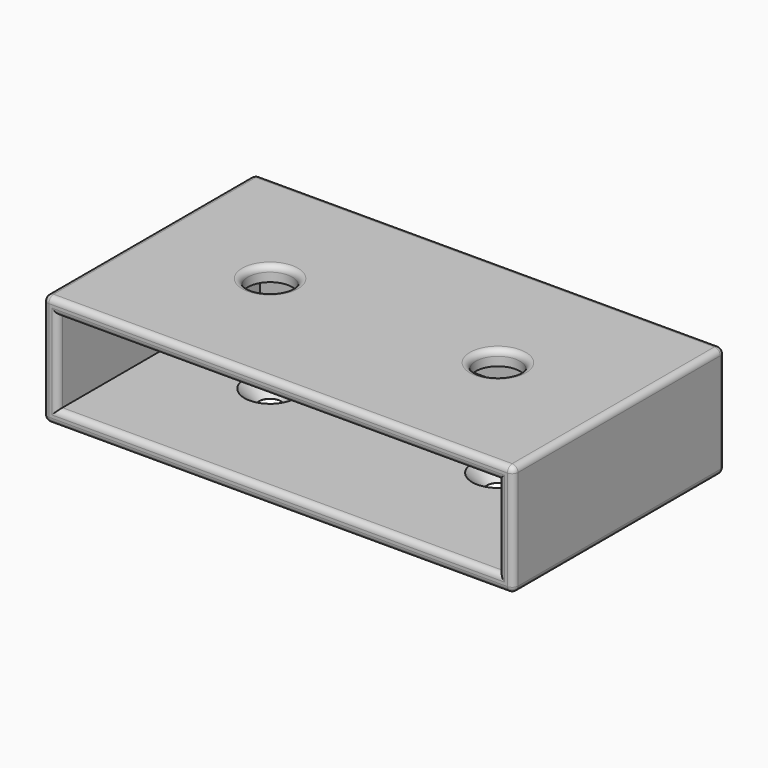
from build123d import *

# Parameters (mm, degrees)
SKETCH_W          = 80
SKETCH_H          = 19
PAD_DEPTH         = 45
SKETCH001_W       = 75
SKETCH001_H       = 14
POCKET_DEPTH      = 0.001
POCKET_DEPTH_BACK = 45.001
SKETCH002_R       = 3.75
POCKET001_DEPTH   = 3.5
SKETCH003_R       = 1.875
POCKET002_DEPTH   = 2.5
CHAMFER_SIZE      = 2.485
SKETCH004_W       = 80
SKETCH004_H       = 19
PAD001_DEPTH      = 2
FILLET_R          = 1


with BuildPart() as part:
    # Sketch → Pad (new body)
    with BuildSketch(Plane.XZ):
        Rectangle(SKETCH_W, SKETCH_H)
    extrude(amount=PAD_DEPTH)

    # Sketch001 → Pocket (cut, two sides)
    with BuildSketch(Plane.XZ) as pocket_sk:
        Rectangle(SKETCH001_W, SKETCH001_H)
    extrude(amount=-POCKET_DEPTH, mode=Mode.SUBTRACT)
    extrude(pocket_sk.sketch, amount=POCKET_DEPTH_BACK, mode=Mode.SUBTRACT)

    # Sketch002 (on DatumPlane) → Pocket001 (cut)
    with BuildSketch(Plane(origin=(0, 0, 9.5), x_dir=(-1, 0, 0), z_dir=(0, 0, 1))):
        with Locations((-19.375, 22.5)):
            Circle(SKETCH002_R)
        with Locations((19.375, 22.5)):
            Circle(SKETCH002_R)
    extrude(amount=-POCKET001_DEPTH, mode=Mode.SUBTRACT)

    # Sketch003 (on DatumPlane) → Pocket002 (cut)
    with BuildSketch(Plane(origin=(0, 0, -7), x_dir=(-1, 0, 0), z_dir=(0, 0, 1))):
        with Locations((-19.375, 22.5)):
            Circle(SKETCH003_R)
        with Locations((19.375, 22.5)):
            Circle(SKETCH003_R)
    extrude(amount=-POCKET002_DEPTH, mode=Mode.SUBTRACT)

    # Chamfer
    chamfer_edges = [part.edges().sort_by_distance(p)[0] for p in [
        (-17.5, -22.5, -7),
        (21.25, -22.5, -7),
    ]]
    chamfer(chamfer_edges, length=CHAMFER_SIZE)

    # Sketch004 → Pad001 (join)
    with BuildSketch(Plane.XZ):
        Rectangle(SKETCH004_W, SKETCH004_H)
    extrude(amount=PAD001_DEPTH)

    # Fillet
    fillet_edges = [part.edges().sort_by_distance(p)[0] for p in [
        (-40, -45, 0),
        (0, -45, 9.5),
        (0, -45, -9.5),
        (40, -45, 0),
        (-37.5, -45, 0),
        (0, -45, 7),
        (37.5, -45, 0),
        (0, -45, -7),
        (40, -23.5, 9.5),
        (40, -23.5, -9.5),
        (-40, -23.5, 9.5),
        (-40, -23.5, -9.5),
        (0, 0, 9.5),
        (-40, 0, 0),
        (40, 0, 0),
        (40, -1, 9.5),
        (-40, -1, 9.5),
        (-40, -1, -9.5),
        (40, -1, -9.5),
        (0, 0, -9.5),
        (-15.625, -22.5, 9.5),
        (23.125, -22.5, 9.5),
    ]]
    fillet(fillet_edges, radius=FILLET_R)


solid = part.part
